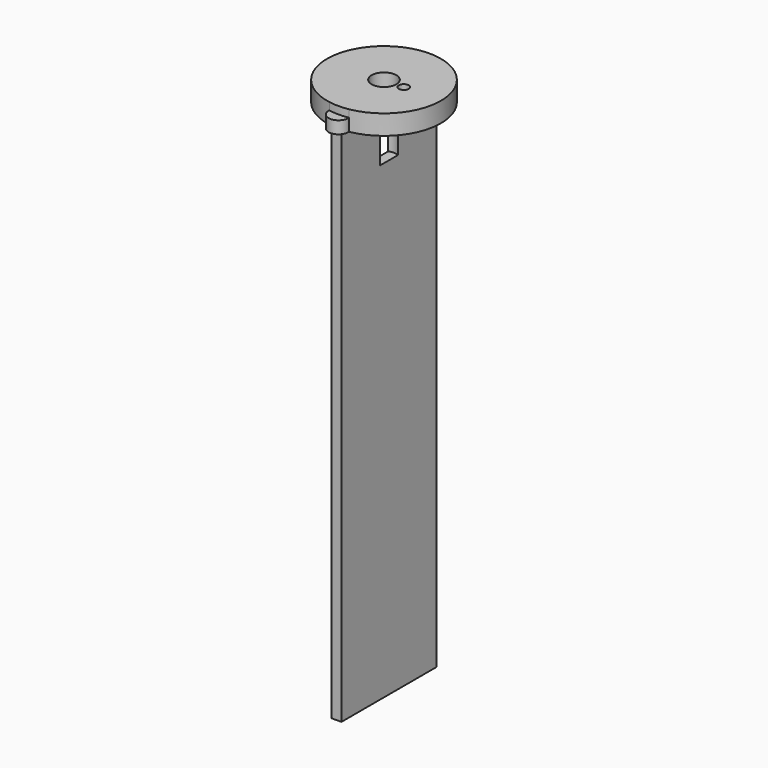
from build123d import *

# Parameters (mm, degrees)
F0_R     = 5
F0_R_2   = 2
F1_DEPTH = 8
F3_DEPTH = 3
F5_DEPTH = 210
F7_DEPTH = 190


with BuildPart() as f1:
    # F0 (on Top) → F1 (new body)
    with BuildSketch(Plane.XY):
        with BuildLine():
            ThreePointArc((3.9848484304, 22.652173913), (0, 27), (-3.9848484304, 22.652173913))
            ThreePointArc((-3.9848484304, 22.652173913), (-23, 0), (-3.9848484304, -22.652173913))
            ThreePointArc((-3.9848484304, -22.652173913), (0, -27), (3.9848484304, -22.652173913))
            ThreePointArc((3.9848484304, -22.652173913), (23, 0), (3.9848484304, 22.652173913))
        make_face()
        Circle(F0_R, mode=Mode.SUBTRACT)
        with Locations((8, 0)):
            Circle(F0_R_2, mode=Mode.SUBTRACT)
    extrude(amount=F1_DEPTH)

    # F2 (on face) → F3 (cut)
    with BuildSketch(Plane.XY.offset(8)):
        with BuildLine():
            ThreePointArc((-3.9848484304, 22.652173913), (0, 23), (3.9848484304, 22.652173913))
            ThreePointArc((3.9848484304, 22.652173913), (0, 27), (-3.9848484304, 22.652173913))
        make_face()
        with BuildLine():
            ThreePointArc((-3.9848484304, -22.652173913), (0, -27), (3.9848484304, -22.652173913))
            ThreePointArc((3.9848484304, -22.652173913), (0, -23), (-3.9848484304, -22.652173913))
        make_face()
    extrude(amount=-F3_DEPTH, mode=Mode.SUBTRACT)

    # F4 (on face) → F5 (join)
    with BuildSketch(Plane(origin=(0, 0, 0), x_dir=(1, 0, 0), z_dir=(0, 0, -1))):
        with BuildLine():
            Line((-2, -4.582575695), (-2, -24))
            Line((-2, -24), (2, -24))
            Line((2, -24), (2, -4.582575695))
            ThreePointArc((2, -4.582575695), (0, -5), (-2, -4.582575695))
        make_face()
        with BuildLine():
            Line((-2, 24), (-2, 4.582575695))
            ThreePointArc((-2, 4.582575695), (0, 5), (2, 4.582575695))
            Line((2, 4.582575695), (2, 24))
            Line((2, 24), (-2, 24))
        make_face()
    extrude(amount=F5_DEPTH)

    # F6 (on face) → F7 (join)
    with BuildSketch(Plane(origin=(0, 0, -210), x_dir=(1, 0, 0), z_dir=(0, 0, -1))):
        with BuildLine():
            ThreePointArc((2, 4.582575695), (0, 5), (-2, 4.582575695))
            Line((-2, 4.582575695), (-2, -4.582575695))
            ThreePointArc((-2, -4.582575695), (0, -5), (2, -4.582575695))
            Line((2, -4.582575695), (2, 4.582575695))
        make_face()
        with BuildLine():
            ThreePointArc((2, 4.582575695), (0, 5), (-2, 4.582575695))
            Line((-2, 4.582575695), (-2, -4.582575695))
            ThreePointArc((-2, -4.582575695), (0, -5), (2, -4.582575695))
            Line((2, -4.582575695), (2, 4.582575695))
        make_face()
    extrude(amount=-F7_DEPTH)


solid = f1.part
